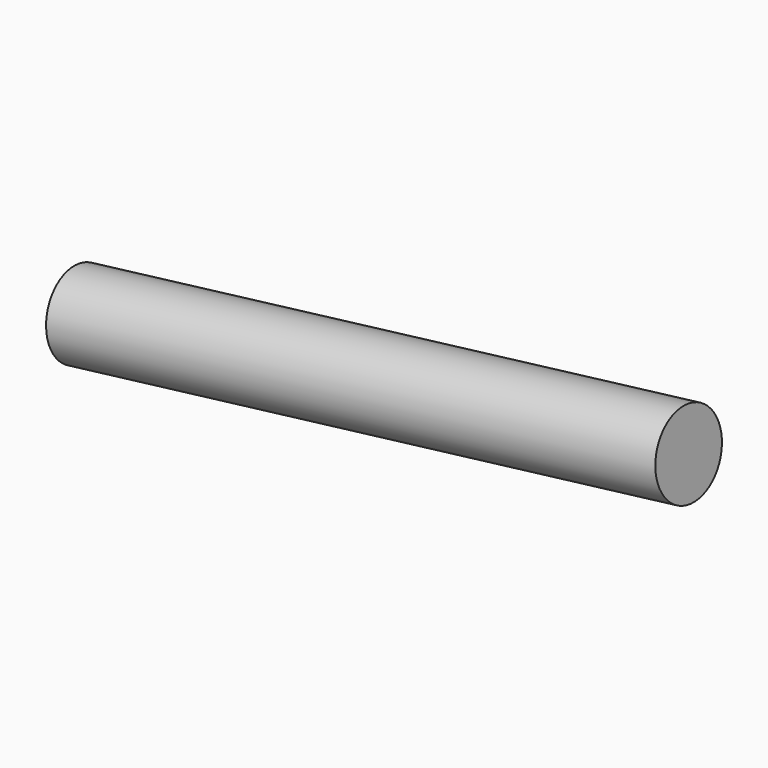
from build123d import *

# Parameters (mm, degrees)
F2_R     = 17.4625
F3_DEPTH = 260.35


with BuildPart() as f3:
    # F2 (on face) → F3 (new body)
    with BuildSketch(Plane(origin=(0, 0, 0), x_dir=(0, -1, 0), z_dir=(-0.992546, 0, -0.121869))):
        with Locations((266.7, 0)):
            Circle(F2_R)
    extrude(amount=-F3_DEPTH)


solid = f3.part
